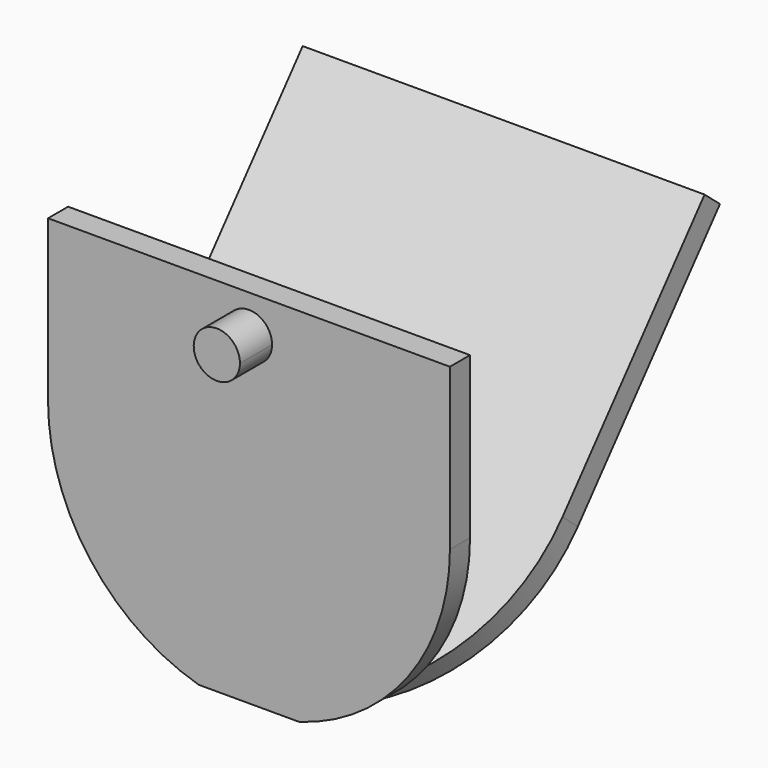
from build123d import *

# Parameters (mm, degrees)
F2_W     = 25.4
F2_H     = 4.7625
F3_DEPTH = 0.79375
F4_DEPTH = 0.79375
F5_R     = 0.635
F6_DEPTH = 25.4
F8_DEPTH = 2.54


with BuildPart() as f3:
    # F2 (on face) → F3 (new body, symmetric)
    with BuildSketch(Plane(origin=(0, 6.935504, -5.819579), x_dir=(-1, 0, 0), z_dir=(0, 0.766044, -0.642788))):
        with BuildLine():
            Line((-12.701223, 15.454063), (-12.701223, 2.754063))
            ThreePointArc((-12.701223, 2.754063), (-10.055389, -5.183437), (-3.176223, -9.945937))
            Line((-3.176223, -9.945937), (-0.001223, -9.945937))
            Line((-0.001223, -9.945937), (3.173777, -9.945937))
            ThreePointArc((3.173777, -9.945937), (10.052944, -5.183437), (12.698777, 2.754063))
            Line((12.698777, 2.754063), (12.698777, 15.454063))
            Line((12.698777, 15.454063), (-12.701223, 15.454063))
        make_face()
        with Locations((-0.001223, 17.835313)):
            Rectangle(F2_W, F2_H)
    extrude(amount=F3_DEPTH, both=True)

    # F0 (on Front) → F4 (join, symmetric)
    with BuildSketch(Plane.XZ):
        with BuildLine():
            Line((-12.7, 8.77501), (-12.7, -1.38499))
            ThreePointArc((-12.7, -1.38499), (-10.054167, -9.32249), (-3.175, -14.08499))
            Line((-3.175, -14.08499), (0, -14.08499))
            Line((0, -14.08499), (3.175, -14.08499))
            ThreePointArc((3.175, -14.08499), (10.054167, -9.32249), (12.7, -1.38499))
            Line((12.7, -1.38499), (12.7, 8.77501))
            Line((12.7, 8.77501), (-12.7, 8.77501))
        make_face()
    extrude(amount=F4_DEPTH, both=True)

    # F5 (on Right) → F6 (cut, symmetric)
    with BuildSketch(Plane.YZ):
        with Locations((0, -13.97)):
            Circle(F5_R)
    extrude(amount=F6_DEPTH, both=True, mode=Mode.SUBTRACT)

    # F7 (on face) → F8 (join)
    with BuildSketch(Plane.XZ.offset(0.79375)):
        with BuildLine():
            ThreePointArc((0, 4.8895), (1.032729, 5.317271), (1.4605, 6.35))
            ThreePointArc((1.4605, 6.35), (-1.032729, 7.382729), (0, 4.8895))
        make_face()
    extrude(amount=F8_DEPTH)


solid = f3.part
